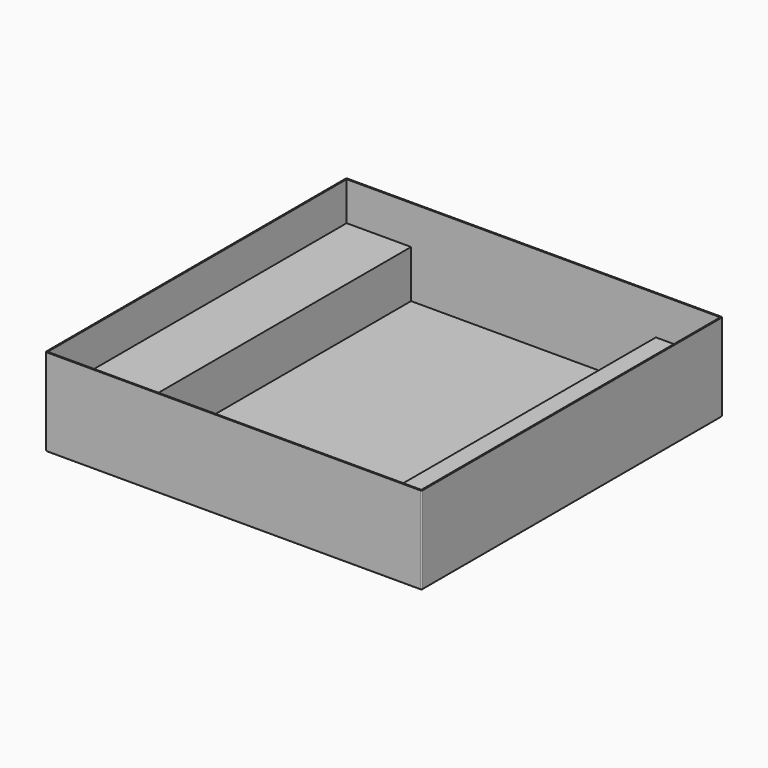
from build123d import *

# Parameters (mm, degrees)
SKETCH_W     = 290
SKETCH_H     = 290
PAD_DEPTH    = 67
THICKNESS_T  = 1
SKETCH001_W  = 50
SKETCH001_H  = 290
PAD001_DEPTH = 37


with BuildPart() as part:
    # Sketch → Pad (new body)
    with BuildSketch(Plane.XY):
        Rectangle(SKETCH_W, SKETCH_H)
    extrude(amount=PAD_DEPTH)

    # Thickness
    thickness_openings = [part.faces().sort_by_distance(p)[0] for p in [
        (0, 0, 67),
    ]]
    offset(amount=THICKNESS_T, openings=thickness_openings)

    # Sketch001 (on Face5 of Thickness) → Pad001 (join)
    with BuildSketch(Plane(origin=(120, 0, 0), x_dir=(1, 0, 0), z_dir=(0, 0, 1))):
        Rectangle(SKETCH001_W, SKETCH001_H)
    pad001 = extrude(amount=PAD001_DEPTH)

    # Mirrored: Pad001 across YZ
    add(pad001.mirror(Plane.YZ))


solid = part.part
